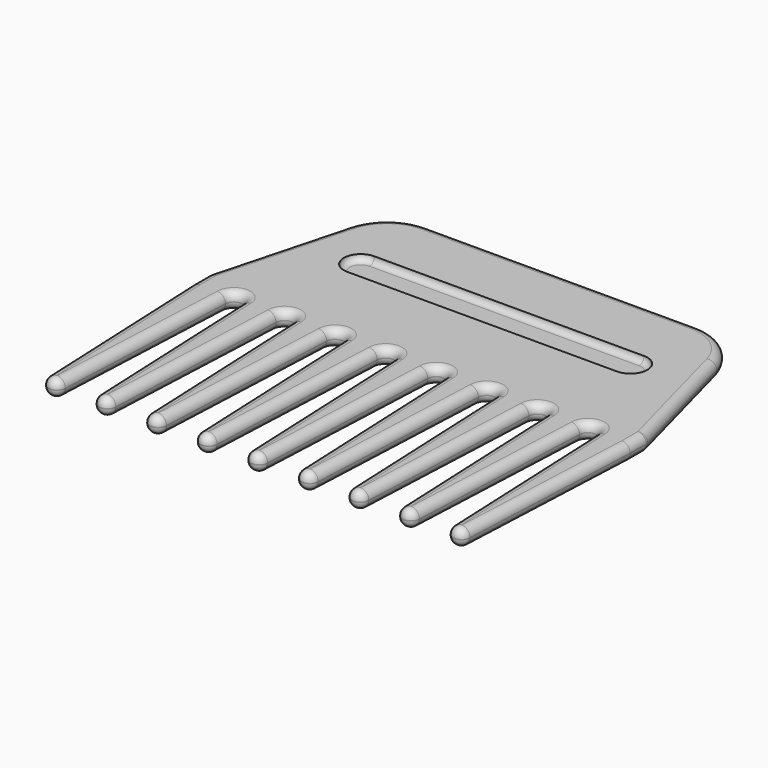
from build123d import *

# Parameters (mm, degrees)
EXTRUDE001_DEPTH = 1.5
FILLET001_R      = 1.4
EXTRUDE_DEPTH    = 4
FILLET_R         = 1.95


with BuildPart() as fillet001:
    # Sketch001 (on Face11 of Fillet) → Extrude001 (new body)
    with BuildSketch(Plane.XY.offset(4)):
        with BuildLine():
            ThreePointArc((-32, 74.123987), (-36, 70.123987), (-32, 66.123987))
            Line((-32, 66.123987), (32, 66.123987))
            ThreePointArc((32, 66.123987), (36, 70.123987), (32, 74.123987))
            Line((32, 74.123987), (-32, 74.123987))
        make_face()
    extrude(amount=-EXTRUDE001_DEPTH)

    # Fillet001
    fillet001_edges = [fillet001.edges().sort_by_distance(p)[0] for p in [
        (-36, 70.123987, 2.5),
        (0, 66.123987, 2.5),
        (36, 70.123987, 2.5),
        (0, 74.123987, 2.5),
    ]]
    fillet(fillet001_edges, radius=FILLET001_R)


with BuildPart() as comb:
    # Sketch → Extrude (new body)
    with BuildSketch(Plane.XY):
        with BuildLine():
            ThreePointArc((-2, 0), (0, -2), (2, 0))
            Line((2, 0), (4, 45))
            ThreePointArc((8, 45), (6, 47), (4, 45))
            Line((8, 45), (10, 0))
            ThreePointArc((10, 0), (12, -2), (14, 0))
            Line((14, 0), (16, 45))
            ThreePointArc((20, 45), (18, 47), (16, 45))
            Line((20, 45), (22, 0))
            ThreePointArc((22, 0), (24, -2), (26, 0))
            Line((26, 0), (28, 45))
            ThreePointArc((32, 45), (30, 47), (28, 45))
            Line((32, 45), (34, 0))
            ThreePointArc((34, 0), (36, -2), (38, 0))
            Line((38, 0), (40, 45))
            ThreePointArc((44, 45), (42, 47), (40, 45))
            Line((44, 45), (46, 0))
            ThreePointArc((46, 0), (48, -2), (50, 0))
            Line((50, 0), (52, 45))
            Line((52, 45), (52, 50))
            Line((52, 50), (43.684399, 81.034245))
            ThreePointArc((43.684399, 81.034245), (39.363931, 87.500282), (32, 90))
            Line((0, 90), (32, 90))
            Line((-32, 90), (0, 90))
            ThreePointArc((-32, 90), (-39.363931, 87.500282), (-43.684399, 81.034245))
            Line((-52, 50), (-43.684399, 81.034245))
            Line((-52, 45), (-52, 50))
            Line((-52, 45), (-50, 0))
            ThreePointArc((-50, 0), (-48, -2), (-46, 0))
            Line((-44, 45), (-46, 0))
            ThreePointArc((-40, 45), (-42, 47), (-44, 45))
            Line((-38, 0), (-40, 45))
            ThreePointArc((-38, 0), (-36, -2), (-34, 0))
            Line((-32, 45), (-34, 0))
            ThreePointArc((-28, 45), (-30, 47), (-32, 45))
            Line((-26, 0), (-28, 45))
            ThreePointArc((-26, 0), (-24, -2), (-22, 0))
            Line((-22, 0), (-20, 45))
            ThreePointArc((-16, 45), (-18, 47), (-20, 45))
            Line((-14, 0), (-16, 45))
            ThreePointArc((-14, 0), (-12, -2), (-10, 0))
            Line((-8, 45), (-10, 0))
            ThreePointArc((-4, 45), (-6, 47), (-8, 45))
            Line((-2, 0), (-4, 45))
        make_face()
    extrude(amount=EXTRUDE_DEPTH)

    # Fillet
    fillet_edges = [comb.edges().sort_by_distance(p)[0] for p in [
        (-4, 45, 2),
        (-8, 45, 2),
        (-6, 47, 0),
        (-6, 47, 4),
        (-2, 0, 2),
        (-3, 22.5, 0),
        (-3, 22.5, 4),
        (2, 0, 2),
        (0, -2, 0),
        (0, -2, 4),
        (4, 45, 2),
        (3, 22.5, 0),
        (3, 22.5, 4),
        (8, 45, 2),
        (6, 47, 0),
        (6, 47, 4),
        (10, 0, 2),
        (9, 22.5, 0),
        (9, 22.5, 4),
        (14, 0, 2),
        (12, -2, 0),
        (12, -2, 4),
        (16, 45, 2),
        (15, 22.5, 0),
        (15, 22.5, 4),
        (20, 45, 2),
        (18, 47, 0),
        (18, 47, 4),
        (22, 0, 2),
        (21, 22.5, 0),
        (21, 22.5, 4),
        (26, 0, 2),
        (24, -2, 0),
        (24, -2, 4),
        (28, 45, 2),
        (27, 22.5, 0),
        (27, 22.5, 4),
        (32, 45, 2),
        (30, 47, 0),
        (30, 47, 4),
        (34, 0, 2),
        (33, 22.5, 0),
        (33, 22.5, 4),
        (38, 0, 2),
        (36, -2, 0),
        (36, -2, 4),
        (40, 45, 2),
        (39, 22.5, 0),
        (39, 22.5, 4),
        (44, 45, 2),
        (42, 47, 0),
        (42, 47, 4),
        (46, 0, 2),
        (45, 22.5, 0),
        (45, 22.5, 4),
        (50, 0, 2),
        (48, -2, 0),
        (48, -2, 4),
        (52, 45, 2),
        (51, 22.5, 0),
        (51, 22.5, 4),
        (52, 50, 2),
        (52, 47.5, 0),
        (52, 47.5, 4),
        (47.8422, 65.517123, 0),
        (47.8422, 65.517123, 4),
        (39.363931, 87.500282, 0),
        (39.363931, 87.500282, 4),
        (16, 90, 0),
        (16, 90, 4),
        (-16, 90, 0),
        (-16, 90, 4),
        (-39.363931, 87.500282, 0),
        (-39.363931, 87.500282, 4),
        (-52, 50, 2),
        (-47.8422, 65.517123, 0),
        (-47.8422, 65.517123, 4),
        (-52, 45, 2),
        (-52, 47.5, 0),
        (-52, 47.5, 4),
        (-50, 0, 2),
        (-51, 22.5, 0),
        (-51, 22.5, 4),
        (-46, 0, 2),
        (-48, -2, 0),
        (-48, -2, 4),
        (-44, 45, 2),
        (-45, 22.5, 0),
        (-45, 22.5, 4),
        (-40, 45, 2),
        (-42, 47, 0),
        (-42, 47, 4),
        (-38, 0, 2),
        (-39, 22.5, 0),
        (-39, 22.5, 4),
        (-34, 0, 2),
        (-36, -2, 0),
        (-36, -2, 4),
        (-32, 45, 2),
        (-33, 22.5, 0),
        (-33, 22.5, 4),
        (-28, 45, 2),
        (-30, 47, 0),
        (-30, 47, 4),
        (-26, 0, 2),
        (-27, 22.5, 0),
        (-27, 22.5, 4),
        (-22, 0, 2),
        (-24, -2, 0),
        (-24, -2, 4),
        (-20, 45, 2),
        (-21, 22.5, 0),
        (-21, 22.5, 4),
        (-16, 45, 2),
        (-18, 47, 0),
        (-18, 47, 4),
        (-14, 0, 2),
        (-15, 22.5, 0),
        (-15, 22.5, 4),
        (-10, 0, 2),
        (-12, -2, 0),
        (-12, -2, 4),
        (-9, 22.5, 0),
        (-9, 22.5, 4),
    ]]
    fillet(fillet_edges, radius=FILLET_R)

    # Cut: cut Fillet001
    add(fillet001.part, mode=Mode.SUBTRACT)


solid = comb.part
